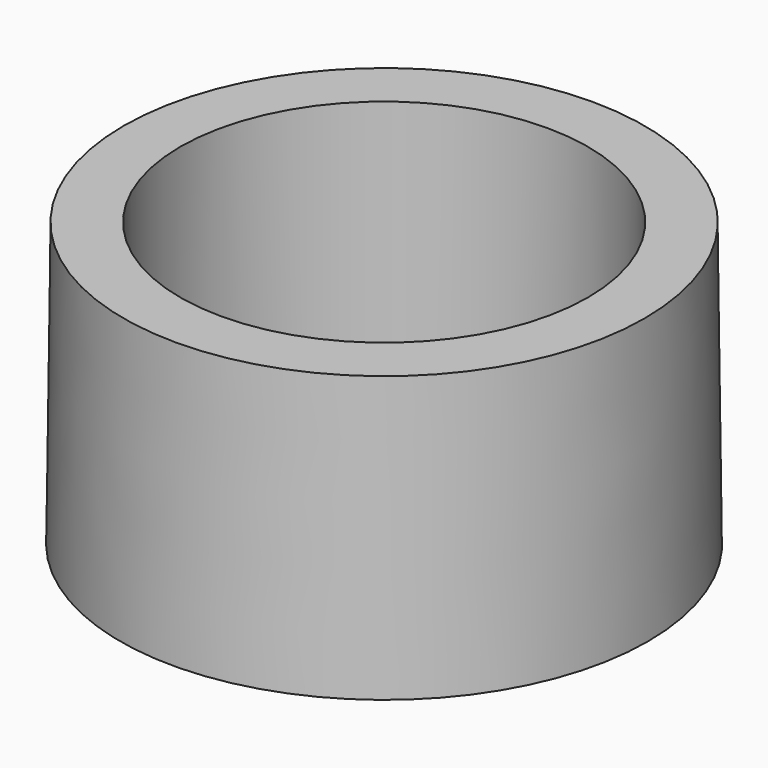
from build123d import *

# Parameters (mm, degrees)
CYLINDER_R     = 18
CYLINDER_DEPTH = 30


with BuildPart() as cilindro:
    # Cylinder → Cylinder (new body)
    with BuildSketch(Plane.XY.offset(-3)):
        Circle(CYLINDER_R)
    extrude(amount=CYLINDER_DEPTH)


with BuildPart() as cut:
    # Cone → Cone (revolve)
    with BuildSketch(Plane.XZ):
        Polygon((0, 0), (23.3, 0), (23, 25), (0, 25), align=None)
    revolve(axis=Axis((0, 0, 0), (0, 0, 1)))

    # Cut: cut Cilindro
    add(cilindro.part, mode=Mode.SUBTRACT)


solid = cut.part
